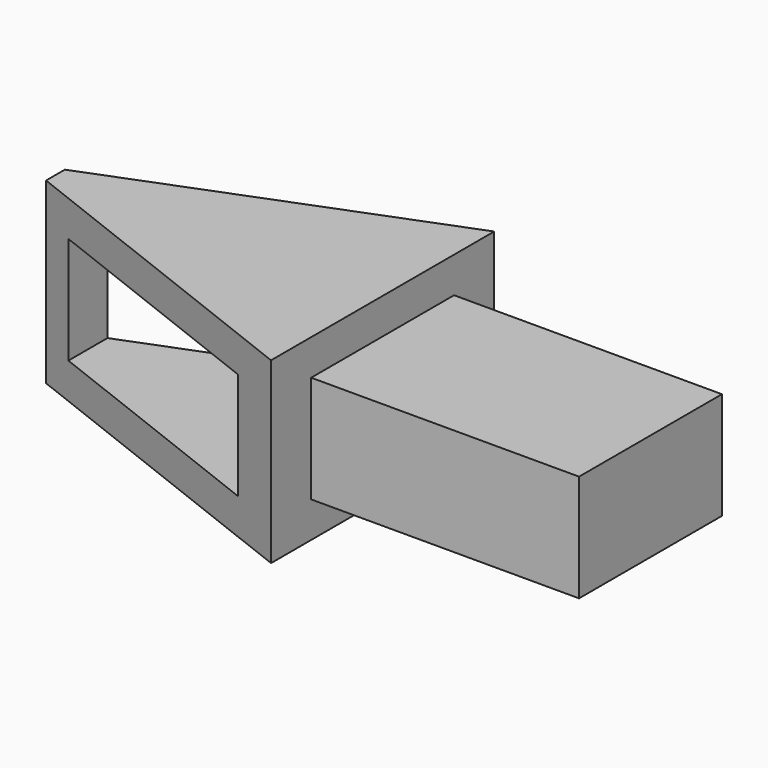
from build123d import *

# Parameters (mm, degrees)
F1_DEPTH = 25.4
F2_W     = 70.138792
F2_H     = 30.48
F3_DEPTH = 63.5
F5_DEPTH = 25.4
F6_W     = 76.2
F6_H     = 25.4
F7_DEPTH = 15.24


with BuildPart() as f1:
    # F0 (on Top) → F1 (new body, symmetric)
    with BuildSketch(Plane.XY):
        Polygon((0, -36.525619), (0, 39.674381), (-101.6, 0), align=None)
    extrude(amount=F1_DEPTH, both=True)

    # F2 (on Front) → F3 (cut, symmetric)
    with BuildSketch(Plane.XZ):
        with Locations((-48.750604, 0)):
            Rectangle(F2_W, F2_H)
    extrude(amount=F3_DEPTH, both=True, mode=Mode.SUBTRACT)

    # F4 (on Top) → F5 (cut, symmetric)
    with BuildSketch(Plane.XY):
        Polygon((-93.059749, 3.334933), (-101.6, 0), (-93.059749, -3.070255), align=None)
    extrude(amount=F5_DEPTH, both=True, mode=Mode.SUBTRACT)

    # F6 (on Top) → F7 (join, symmetric)
    with BuildSketch(Plane.XY):
        with Locations((38.1, 12.7)):
            Rectangle(F6_W, F6_H)
    extrude(amount=F7_DEPTH, both=True)

    # F8: F1 across plane


with BuildPart() as f1_1:
    add(f1.part)
    add(f1.part.mirror(Plane.XZ))


solid = f1_1.part
